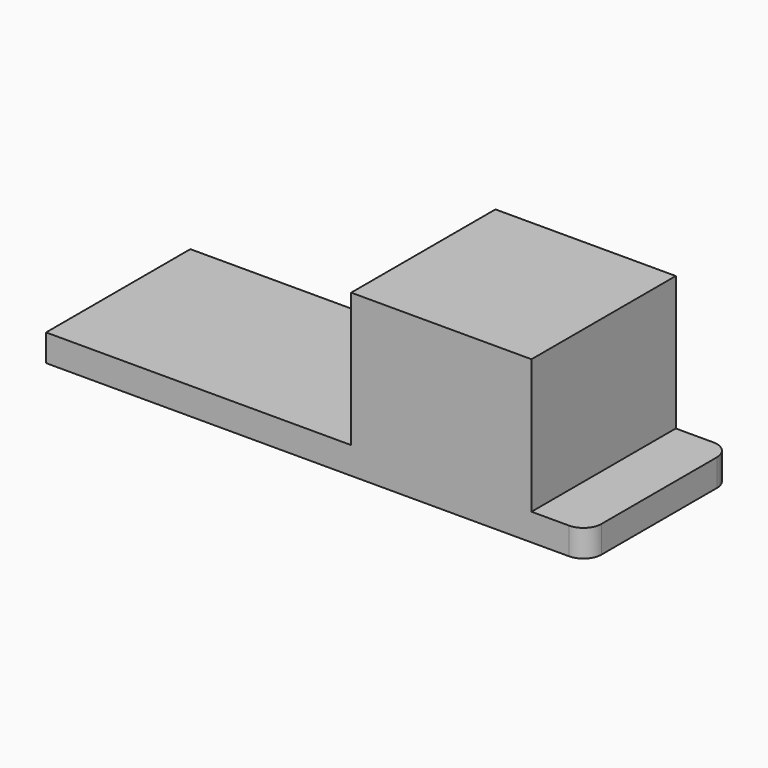
from build123d import *

# Parameters (mm, degrees)
F0_W     = 50.8
F0_H     = 37.8133962381
F0_H_2   = 0.2866037619
F1_DEPTH = 50.8
F2_R     = 5.08


with BuildPart() as f1:
    # F0 (on Front) → F1 (new body)
    with BuildSketch(Plane.XZ):
        with Locations((0, 0.143301881)):
            Rectangle(F0_W, F0_H)
        with Locations((0, -18.906698119)):
            Rectangle(F0_W, F0_H_2)
        Polygon((-25.4, -19.05), (-25.4, -18.7633962381), (-111.351557076, -18.7633962381), (-111.351557076, -26.3833962381), (41.048442924, -26.3833962381), (41.048442924, -18.7633962381), (25.4, -18.7633962381), (25.4, -19.05), align=None)
    extrude(amount=F1_DEPTH)

    # F2
    f2_edges = [f1.edges().sort_by_distance(p)[0] for p in [
        (41.048443, 0, -22.573396),
        (41.048443, -50.8, -22.573396),
    ]]
    fillet(f2_edges, radius=F2_R)


solid = f1.part
